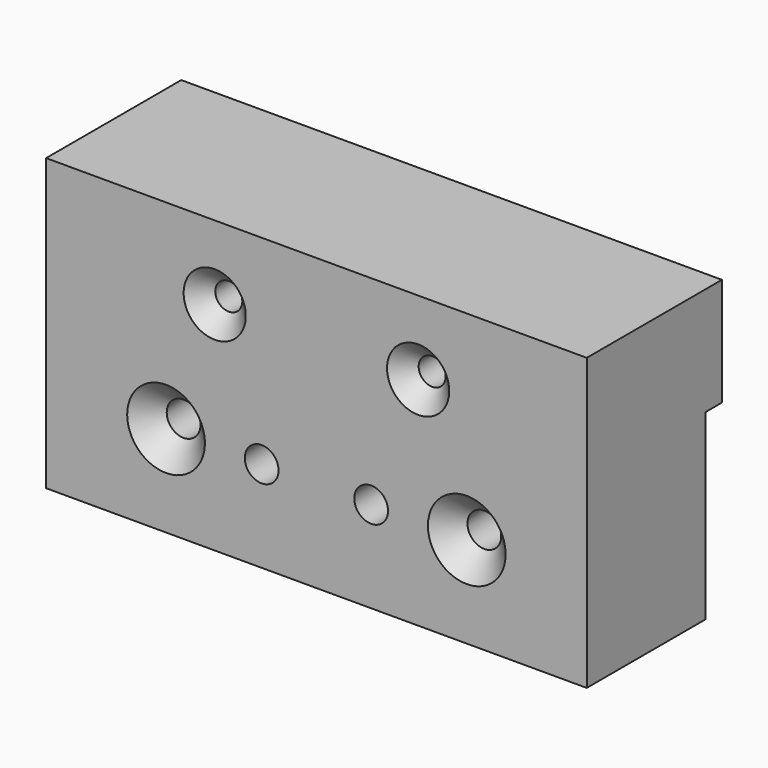
from build123d import *

# Parameters (mm, degrees)
F0_W           = 80
F0_H           = 43
F1_DEPTH       = 12.5
F2_W           = 3
F2_H           = 27
F3_DEPTH       = 80.001
F5_D           = 4
F5_CSINK_D     = 9.2
F5_CSINK_ANGLE = 90
F7_D           = 5
F7_CSINK_D     = 11.5
F7_CSINK_ANGLE = 90
F6_R           = 2.5
F8_DEPTH       = 25.001


with BuildPart() as f1:
    # F0 (on Front) → F1 (new body, symmetric)
    with BuildSketch(Plane.XZ):
        Rectangle(F0_W, F0_H)
    extrude(amount=F1_DEPTH, both=True)

    # F2 (on face) → F3 (cut, through all)
    with BuildSketch(Plane.YZ.offset(40)):
        with Locations((11, -8)):
            Rectangle(F2_W, F2_H)
    extrude(amount=-F3_DEPTH, mode=Mode.SUBTRACT)

    # F5 (through all)
    with Locations(Plane.XZ.offset(12.5)):
        with Locations((-15.05, 10.55), (15.05, 10.55)):
            CounterSinkHole(F5_D / 2, F5_CSINK_D / 2, counter_sink_angle=F5_CSINK_ANGLE)

    # F7 (through all)
    with Locations(Plane.XZ.offset(12.5)):
        with Locations((-22.25, -8), (22.25, -8)):
            CounterSinkHole(F7_D / 2, F7_CSINK_D / 2, counter_sink_angle=F7_CSINK_ANGLE)

    # F6 (on face) → F8 (cut, through all)
    with BuildSketch(Plane.XZ.offset(12.5)):
        with Locations((-8.1, -8)):
            Circle(F6_R)
        with Locations((8.1, -8)):
            Circle(F6_R)
    extrude(amount=-F8_DEPTH, mode=Mode.SUBTRACT)


solid = f1.part
